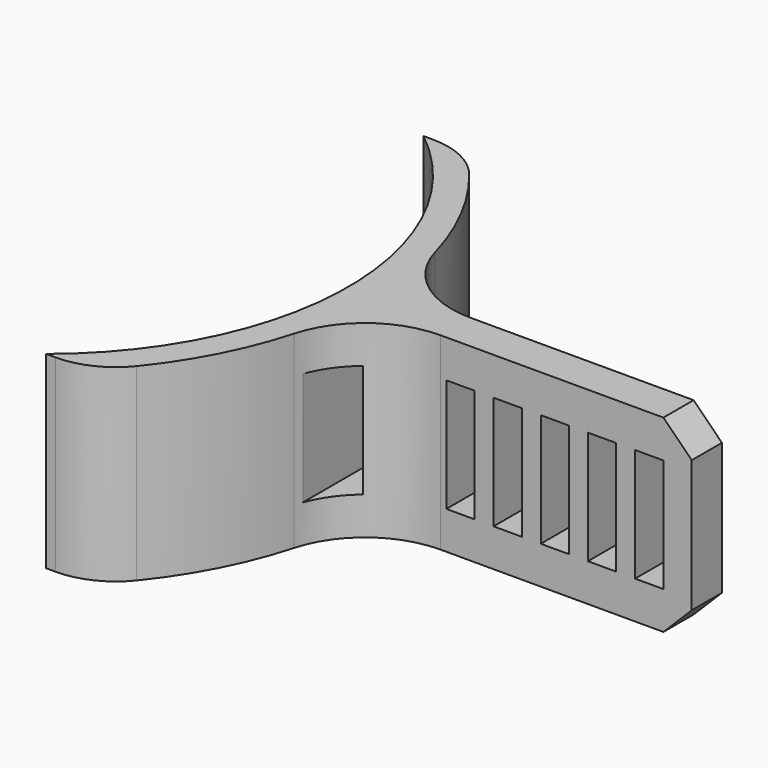
from build123d import *

# Parameters (mm, degrees)
F1_DEPTH = 10
F2_W     = 3
F2_H     = 12
F3_DEPTH = 10
F5_SIZE  = 3
F6_R     = 8


with BuildPart() as f1:
    # F0 (on Top) → F1 (new body, symmetric)
    with BuildSketch(Plane.XY):
        with BuildLine():
            ThreePointArc((43.370497, 2), (37.315196, 4.041776), (33.732609, 9.333333))
            ThreePointArc((33.732609, 9.333333), (30.149158, 17.777184), (24.494897, 25))
            Line((24.494897, 25), (19.974984, 25))
            ThreePointArc((19.974984, 25), (32, 0), (19.974984, -25))
            Line((19.974984, -25), (24.494897, -25))
            ThreePointArc((24.494897, -25), (30.149158, -17.777184), (33.732609, -9.333333))
            ThreePointArc((33.732609, -9.333333), (37.315196, -4.041776), (43.370497, -2))
            Line((43.370497, -2), (70, -2))
            Line((70, -2), (70, 2))
            Line((70, 2), (43.370497, 2))
        make_face()
    extrude(amount=F1_DEPTH, both=True)


with BuildPart() as f3:
    # F2 (on Front) → F3 (new body, symmetric)
    with BuildSketch(Plane.XZ):
        with Locations((65.5, 0)):
            Rectangle(F2_W, F2_H)
        with Locations((45.5, 0)):
            Rectangle(F2_W, F2_H)
        with Locations((50.5, 0)):
            Rectangle(F2_W, F2_H)
        with Locations((60.5, 0)):
            Rectangle(F2_W, F2_H)
        with Locations((55.5, 0)):
            Rectangle(F2_W, F2_H)
        with Locations((35.5, 0)):
            Rectangle(F2_W, F2_H)
    extrude(amount=F3_DEPTH, both=True)


with BuildPart() as f1_1:
    add(f1.part)

    # F4: cut F3
    add(f3.part, mode=Mode.SUBTRACT)

    # F5
    f5_edges = [f1_1.edges().sort_by_distance(p)[0] for p in [
        (70, 0, 10),
        (70, 0, -10),
    ]]
    chamfer(f5_edges, length=F5_SIZE)

    # F6
    f6_edges = [f1_1.edges().sort_by_distance(p)[0] for p in [
        (24.494897, 25, 0),
        (24.494897, -25, 0),
    ]]
    fillet(f6_edges, radius=F6_R)


solid = f1_1.part
